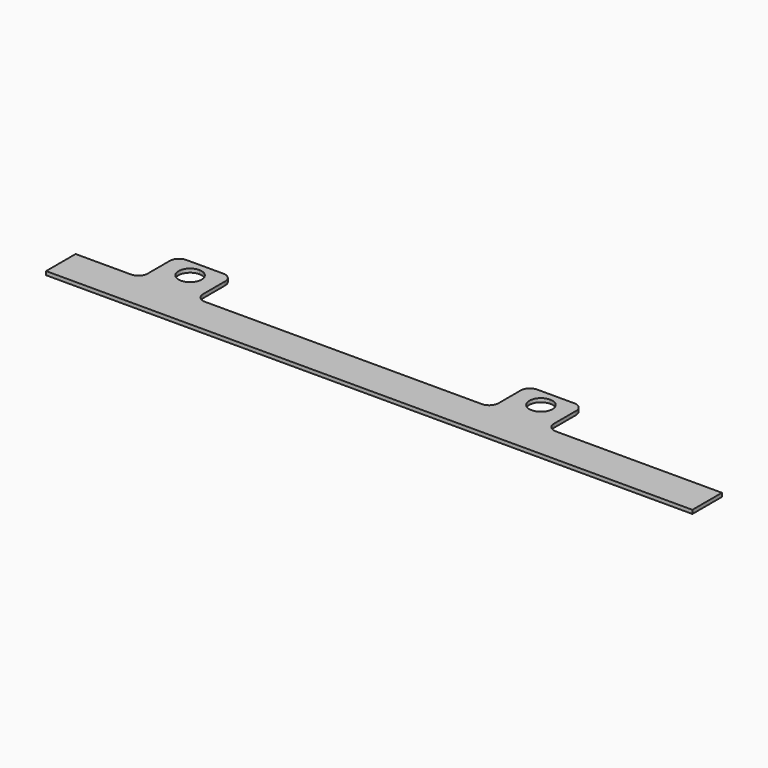
from build123d import *

# Parameters (mm, degrees)
F1_DEPTH = 2
F2_R     = 5


with BuildPart() as f1:
    # F0 (on Top) → F1 (new body)
    with BuildSketch(Plane.XY):
        Polygon((19.991039, 60.674), (-15.008961, 60.674), (-15.008961, 40.674), (334.991039, 40.674), (334.991039, 60.674), (239.991039, 60.674), (209.991039, 60.674), (49.991039, 60.674), align=None)
        Polygon((19.991039, 85.674), (19.991039, 60.674), (49.991039, 60.674), (49.991039, 85.674), (34.991039, 85.674), align=None)
        with BuildLine():
            ThreePointArc((41.241039, 75.674), (30.571621, 71.254583), (34.991039, 81.924))
            ThreePointArc((34.991039, 81.924), (39.410456, 80.093417), (41.241039, 75.674))
        make_face(mode=Mode.SUBTRACT)
        Polygon((209.991039, 85.674), (209.991039, 60.674), (239.991039, 60.674), (239.991039, 85.674), (224.991039, 85.674), align=None)
        with BuildLine():
            ThreePointArc((231.241039, 75.674), (220.571621, 71.254583), (224.991039, 81.924))
            ThreePointArc((224.991039, 81.924), (229.410456, 80.093417), (231.241039, 75.674))
        make_face(mode=Mode.SUBTRACT)
    extrude(amount=F1_DEPTH)

    # F2
    f2_edges = [f1.edges().sort_by_distance(p)[0] for p in [
        (19.991039, 60.674, 1),
        (49.991039, 60.674, 1),
        (209.991039, 60.674, 1),
        (239.991039, 60.674, 1),
        (239.991039, 85.674, 1),
        (209.991039, 85.674, 1),
        (19.991039, 85.674, 1),
        (49.991039, 85.674, 1),
    ]]
    fillet(f2_edges, radius=F2_R)


solid = f1.part
